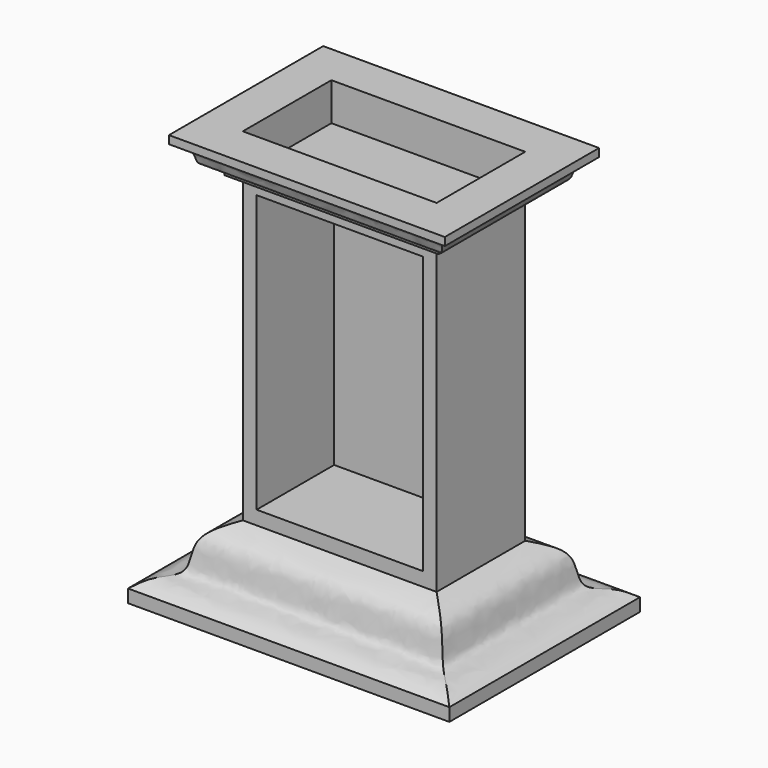
from build123d import *

# Parameters (mm, degrees)
F0_W     = 88.9
F0_H     = 139.7
F1_DEPTH = 50.8
F2_T     = -6.35


with BuildPart() as f1:
    # F0 (on Front) → F1 (new body)
    with BuildSketch(Plane.XZ):
        with Locations((44.45, 69.85)):
            Rectangle(F0_W, F0_H)
    extrude(amount=F1_DEPTH)

    # F2
    f2_openings = [f1.faces().sort_by_distance(p)[0] for p in [
        (44.45, -50.8, 69.85),
    ]]
    offset(amount=F2_T, openings=f2_openings)


with BuildPart() as f5:
    # F5: sweep along a path in F5_path
    with BuildLine(Plane(origin=(0, 0, 139.7), x_dir=(0, -1, 0), z_dir=(0, 0, -1))) as f5_path:
        Line((0, 0), (50.8, 0))
        Line((50.8, 0), (50.8, -88.9))
        Line((50.8, -88.9), (0, -88.9))
        Line((0, -88.9), (0, 0))
    # F4 (on face) → F5 (sweep)
    with BuildSketch(Plane(origin=(0, 0, 0), x_dir=(-1, 0, 0), z_dir=(0, 1, 0))):
        with BuildLine():
            Line((0, 157.0629328489), (0, 139.7))
            Line((0, 139.7), (4.6249032021, 139.7))
            add(Edge.make_bspline(
                [(18.8137087971, 153.3793061972), (15.6686720561, 151.9208633772), (11.7620585618, 149.8615533117), (12.0667955911, 142.6630140586), (5.1945240673, 146.003641694), (4.6249032021, 139.7)],
                knots=[0, 0, 0, 0, 0.3628402212, 0.6332932072, 1, 1, 1, 1], degree=3))
            Line((18.8137087971, 153.3793061972), (18.8137087971, 157.0629328489))
            Line((18.8137087971, 157.0629328489), (0, 157.0629328489))
        make_face()
    sweep(path=f5_path.line, transition=Transition.RIGHT)


with BuildPart() as f8:
    # F8: sweep along a path in F8_path
    with BuildLine(Plane(origin=(0, -50.8, 0), x_dir=(0, 1, 0), z_dir=(0, 0, 1))) as f8_path:
        Line((0, 0), (50.8, 0))
        Line((50.8, 0), (50.8, -88.9))
        Line((50.8, -88.9), (0, -88.9))
        Line((0, -88.9), (0, 0))
    # F7 (on face) → F8 (sweep)
    with BuildSketch(Plane(origin=(0, 0, 0), x_dir=(-1, 0, 0), z_dir=(0, 1, 0))):
        with BuildLine():
            add(Edge.make_bspline(
                [(29.2525496334, -25.138322264), (27.0975765937, -23.5995212541), (22.8356655803, -20.5562196209), (12.8140237394, -21.3230080133), (13.7710767322, -5.00749148), (4.6527891316, -1.6918649419), (0, 0)],
                knots=[0, 0, 0, 0, 0.2199268032, 0.4349513647, 0.7116726008, 1, 1, 1, 1], degree=3))
            Line((0, 0), (0, -31.0879405588))
            Line((0, -31.0879405588), (29.2525496334, -31.0879405588))
            Line((29.2525496334, -31.0879405588), (29.2525496334, -25.138322264))
        make_face()
    sweep(path=f8_path.line, transition=Transition.RIGHT)


solid = Compound([f1.part, f5.part, f8.part])
